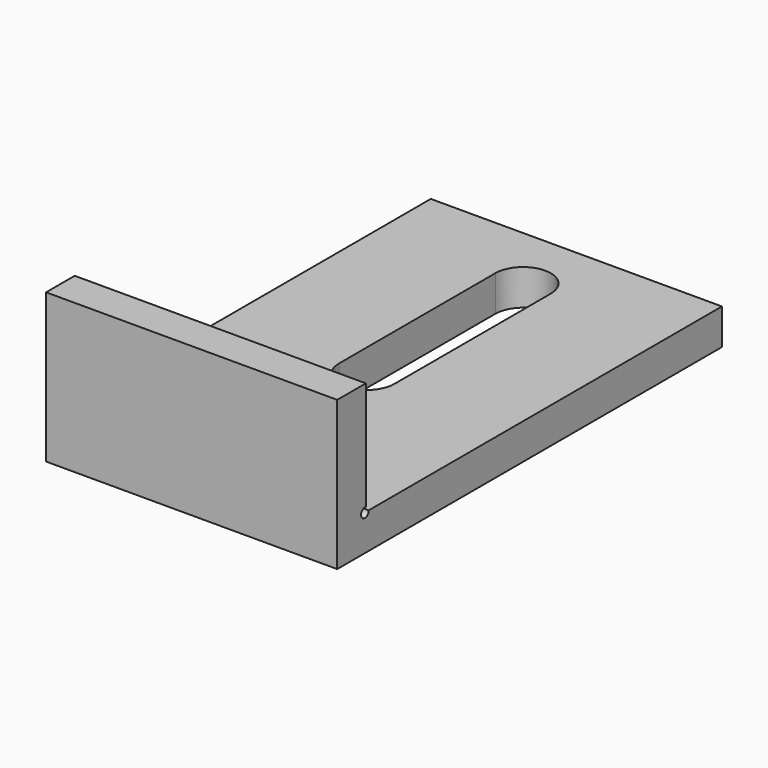
from build123d import *

# Parameters (mm, degrees)
F0_W     = 48.8410666585
F0_H     = 6
F1_DEPTH = 25
F0_H_2   = 74.675624311
F2_DEPTH = 6
F3_R     = 0.8
F4_DEPTH = 25.25


with BuildPart() as f1:
    # F0 (on Top) → F1 (new body)
    with BuildSketch(Plane.XY):
        with Locations((0, -37.3378121555)):
            Rectangle(F0_W, F0_H)
    extrude(amount=F1_DEPTH)

    # F0 (on Top) → F2 (join)
    with BuildSketch(Plane.XY):
        with Locations((0, -37.3378121555)):
            Rectangle(F0_W, F0_H)
        with Locations((0, 3)):
            Rectangle(F0_W, F0_H_2)
        with BuildLine():
            Line((4.648, 29.1621878445), (4.648, -3.6038121555))
            ThreePointArc((4.648, -3.6038121555), (0, -8.2518121555), (-4.648, -3.6038121555))
            Line((-4.648, -3.6038121555), (-4.648, 29.1621878445))
            ThreePointArc((-4.648, 29.1621878445), (0, 33.8101878445), (4.648, 29.1621878445))
        make_face(mode=Mode.SUBTRACT)
    extrude(amount=F2_DEPTH)

    # F3 (on Right) → F4 (cut, symmetric)
    with BuildSketch(Plane.YZ):
        with Locations((-34.5324325053, 5.9808787941)):
            Circle(F3_R)
    extrude(amount=F4_DEPTH, both=True, mode=Mode.SUBTRACT)


solid = f1.part
